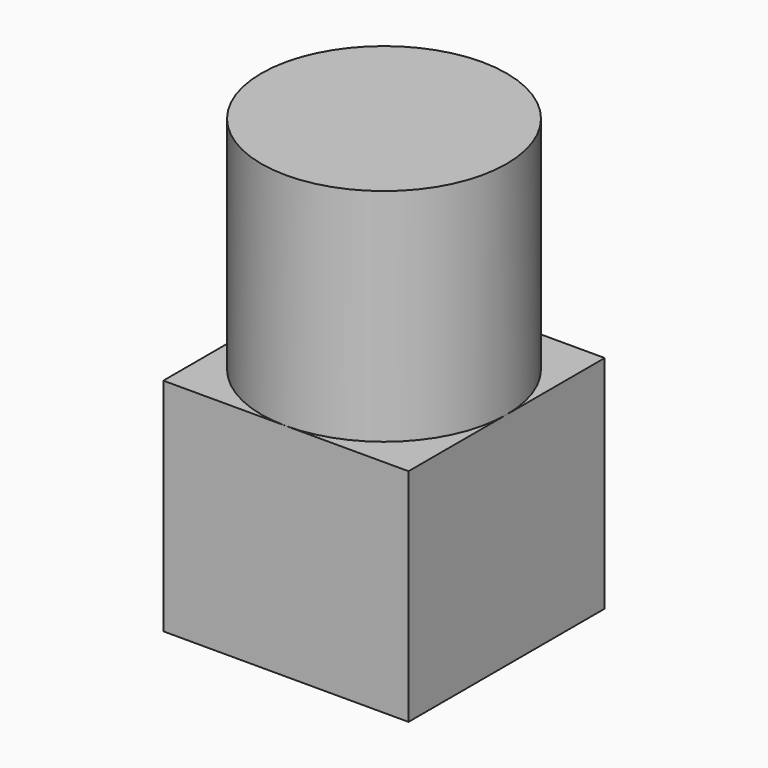
from build123d import *

# Parameters (mm, degrees)
SKETCH_W     = 10
SKETCH_H     = 10
PAD_DEPTH    = 9
SKETCH001_R  = 5
PAD001_DEPTH = 9


with BuildPart() as part:
    # Sketch → Pad (new body)
    with BuildSketch(Plane.XY):
        Rectangle(SKETCH_W, SKETCH_H)
    extrude(amount=PAD_DEPTH)

    # Sketch001 → Pad001 (join)
    with BuildSketch(Plane.XY.offset(9)):
        Circle(SKETCH001_R)
    extrude(amount=PAD001_DEPTH)


solid = part.part
